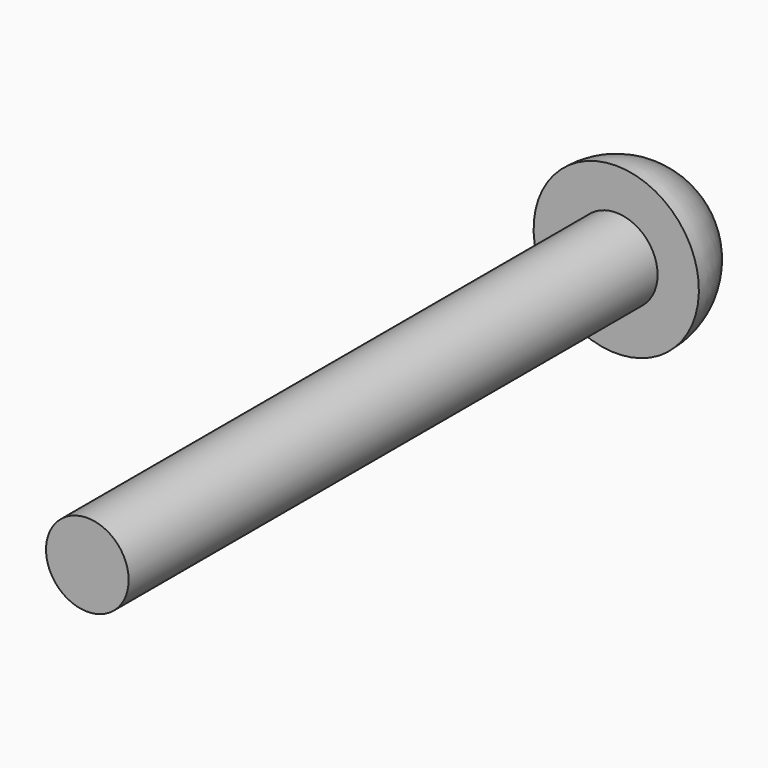
from build123d import *

# Parameters (mm, degrees)
F0_R     = 6.35
F1_DEPTH = 101.6


with BuildPart() as f1:
    # F0 (on Front) → F1 (new body)
    with BuildSketch(Plane.XZ):
        Circle(F0_R)
    extrude(amount=F1_DEPTH)

    # F2 (on Right) → F3 (revolve)
    with BuildSketch(Plane.YZ):
        with BuildLine():
            Line((0, 12.7), (0, 0))
            Line((0, 0), (12.7, 0))
            ThreePointArc((12.7, 0), (8.980256, 8.980256), (0, 12.7))
        make_face()
    revolve(axis=Axis((0, 6.35, 0), (0, -1, 0)))


solid = f1.part
